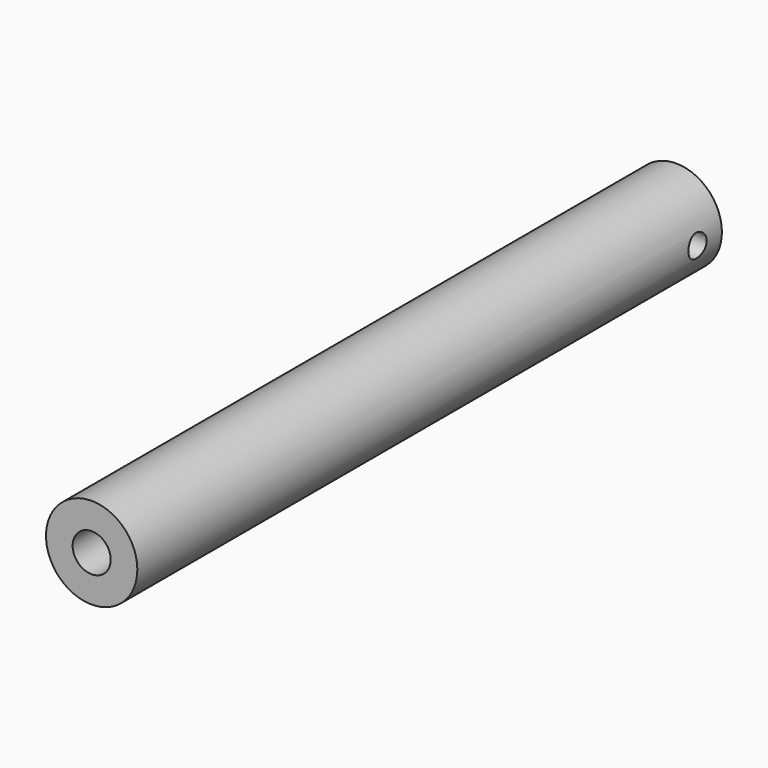
from build123d import *

# Parameters (mm, degrees)
F0_R          = 38.1
F1_DEPTH      = 609.6
F2_R          = 9.525
F3_DEPTH      = 38.101
F3_DEPTH_BACK = 38.101
F4_R          = 15.875
F5_DEPTH      = 609.6010001


with BuildPart() as f1:
    # F0 (on Front) → F1 (new body)
    with BuildSketch(Plane.XZ):
        Circle(F0_R)
    extrude(amount=F1_DEPTH)

    # F2 (on Right) → F3 (cut, two sides)
    with BuildSketch(Plane.YZ) as f3_sk:
        with Locations((-25.4, 0)):
            Circle(F2_R)
    extrude(amount=-F3_DEPTH, mode=Mode.SUBTRACT)
    extrude(f3_sk.sketch, amount=F3_DEPTH_BACK, mode=Mode.SUBTRACT)

    # F4 (on Front) → F5 (cut, through all)
    with BuildSketch(Plane.XZ):
        Circle(F4_R)
    extrude(amount=F5_DEPTH, mode=Mode.SUBTRACT)


solid = f1.part
